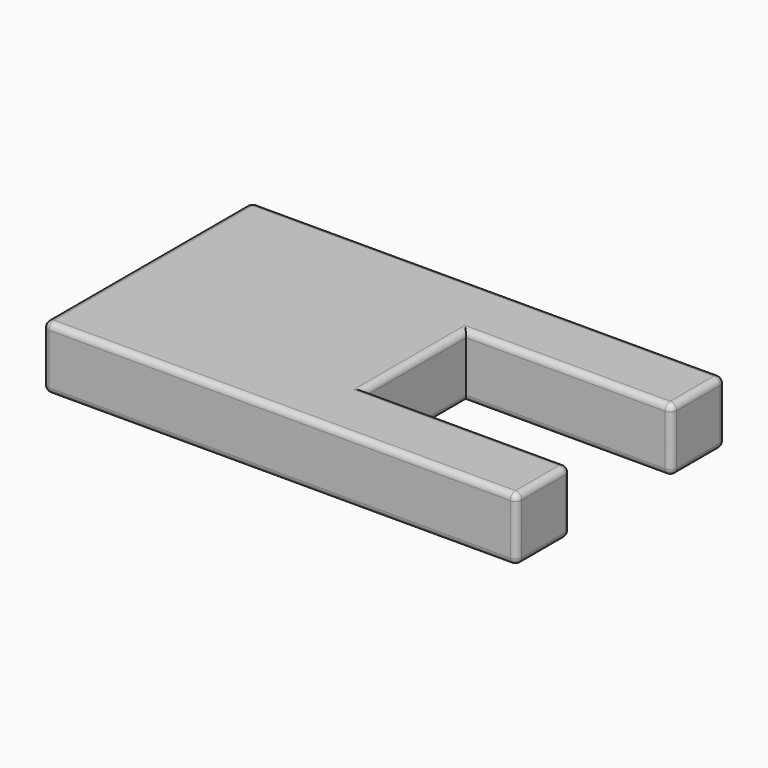
from build123d import *

# Parameters (mm, degrees)
F1_DEPTH = 5.08
F2_R     = 0.508


with BuildPart() as f1:
    # F0 (on Top) → F1 (new body)
    with BuildSketch(Plane.XY):
        Polygon((19.05, 10.4775), (-19.05, 10.4775), (-19.05, -10.4775), (19.05, -10.4775), (19.05, -5.08), (2.54, -5.08), (2.54, 5.08), (19.05, 5.08), align=None)
    extrude(amount=F1_DEPTH)

    # F2
    f2_edges = [f1.edges().sort_by_distance(p)[0] for p in [
        (2.54, 0, 5.08),
        (2.54, 0, 0),
        (10.795, 5.08, 0),
        (10.795, 5.08, 5.08),
        (10.795, -5.08, 5.08),
        (10.795, -5.08, 0),
        (19.05, -10.4775, 2.54),
        (0, -10.4775, 5.08),
        (0, -10.4775, 0),
        (-19.05, -10.4775, 2.54),
        (19.05, 5.08, 2.54),
        (19.05, -5.08, 2.54),
        (0, 10.4775, 0),
        (19.05, 10.4775, 2.54),
        (0, 10.4775, 5.08),
        (-19.05, 10.4775, 2.54),
        (-19.05, 0, 5.08),
        (-19.05, 0, 0),
        (19.05, 7.77875, 5.08),
        (19.05, 7.77875, 0),
        (19.05, -7.77875, 0),
        (19.05, -7.77875, 5.08),
    ]]
    fillet(f2_edges, radius=F2_R)


solid = f1.part
